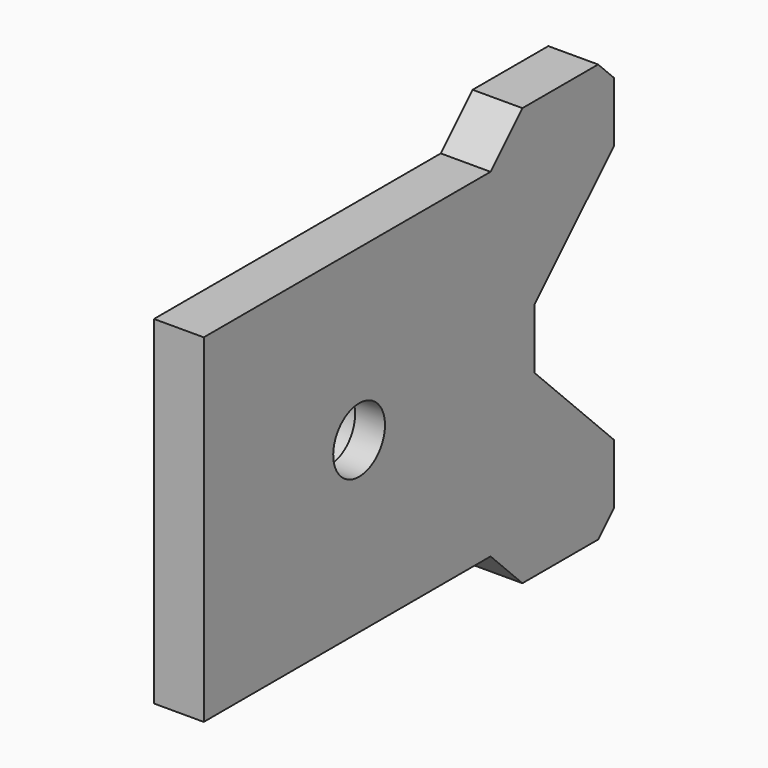
from build123d import *

# Parameters (mm, degrees)
CYLINDER042_R     = 4.1
CYLINDER042_DEPTH = 3
CYLINDER041_R     = 3.25
CYLINDER041_DEPTH = 8
BOX012_W          = 5
BOX012_H          = 40
BOX012_DEPTH      = 5
CHAMFER009_SIZE   = 4
BOX013_W          = 5
BOX013_H          = 40
BOX013_DEPTH      = 5
CHAMFER008_SIZE   = 4
BOX011_W          = 5
BOX011_H          = 51.5
BOX011_DEPTH      = 26
CHAMFER018_SIZE   = 10
BOX008_W          = 5
BOX008_H          = 51.5
BOX008_DEPTH      = 42
CHAMFER021_SIZE   = 2


with BuildPart() as cylinder042:
    # Cylinder042 → Cylinder042 (new body)
    with BuildSketch(Plane(origin=(26, 14, 21), x_dir=(0, 0, -1), z_dir=(1, 0, 0))):
        Circle(CYLINDER042_R)
    extrude(amount=CYLINDER042_DEPTH)


with BuildPart() as fusion041004010008017:
    # Cylinder041 → Cylinder041 (new body)
    with BuildSketch(Plane(origin=(26, 14, 21), x_dir=(0, 0, -1), z_dir=(1, 0, 0))):
        Circle(CYLINDER041_R)
    extrude(amount=CYLINDER041_DEPTH)

    # Fusion041004010008017: union Cylinder042
    add(cylinder042.part)


with BuildPart() as chamfer009:
    # Box012 → Box012 (new body)
    with BuildSketch(Plane(origin=(27, -5.5, -1), x_dir=(1, 0, 0), z_dir=(0, 0, 1))):
        with Locations((2.5, 20)):
            Rectangle(BOX012_W, BOX012_H)
    extrude(amount=BOX012_DEPTH)

    # Chamfer009
    chamfer009_edges = [chamfer009.edges().sort_by_distance(p)[0] for p in [
        (29.5, 34.5, 4),
    ]]
    chamfer(chamfer009_edges, length=CHAMFER009_SIZE)


with BuildPart() as chamfer008:
    # Box013 → Box013 (new body)
    with BuildSketch(Plane(origin=(27, -5.5, 38), x_dir=(1, 0, 0), z_dir=(0, 0, 1))):
        with Locations((2.5, 20)):
            Rectangle(BOX013_W, BOX013_H)
    extrude(amount=BOX013_DEPTH)

    # Chamfer008
    chamfer008_edges = [chamfer008.edges().sort_by_distance(p)[0] for p in [
        (29.5, 34.5, 38),
    ]]
    chamfer(chamfer008_edges, length=CHAMFER008_SIZE)


with BuildPart() as chamfer018:
    # Box011 → Box011 (new body)
    with BuildSketch(Plane(origin=(27, 51, 8), x_dir=(1, 0, 0), z_dir=(0, 0, 1))):
        with Locations((2.5, 25.75)):
            Rectangle(BOX011_W, BOX011_H)
    extrude(amount=BOX011_DEPTH)

    # Chamfer018
    chamfer018_edges = [chamfer018.edges().sort_by_distance(p)[0] for p in [
        (29.5, 51, 8),
        (29.5, 51, 34),
    ]]
    chamfer(chamfer018_edges, length=CHAMFER018_SIZE)


with BuildPart() as chamfer018_1:
    # Chamfer018 placement: moved
    add(chamfer018.part.moved(Location((0, -15, 0))))


with BuildPart() as cut001002003031:
    # Box008 → Box008 (new body)
    with BuildSketch(Plane(origin=(27, -5.5, 0), x_dir=(1, 0, 0), z_dir=(0, 0, 1))):
        with Locations((2.5, 25.75)):
            Rectangle(BOX008_W, BOX008_H)
    extrude(amount=BOX008_DEPTH)

    # Cut001002003026: cut Chamfer018
    add(chamfer018_1.part, mode=Mode.SUBTRACT)

    # Cut001002003027: cut Chamfer008
    add(chamfer008.part, mode=Mode.SUBTRACT)

    # Cut001002003028: cut Chamfer009
    add(chamfer009.part, mode=Mode.SUBTRACT)

    # Chamfer021
    chamfer021_edges = [cut001002003031.edges().sort_by_distance(p)[0] for p in [
        (29.5, 46, 42),
        (29.5, 46, 0),
    ]]
    chamfer(chamfer021_edges, length=CHAMFER021_SIZE)

    # Cut001002003031: cut Fusion041004010008017
    add(fusion041004010008017.part, mode=Mode.SUBTRACT)


solid = cut001002003031.part
